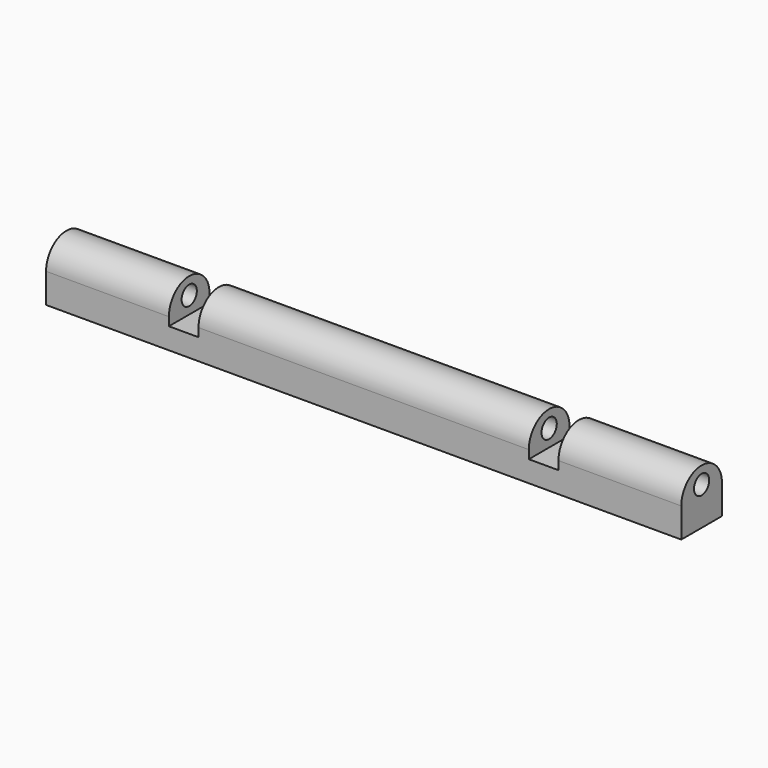
from build123d import *

# Parameters (mm, degrees)
F0_W          = 150
F0_H          = 12
F1_DEPTH      = 3
F1_DEPTH_BACK = 2
F2_R          = 2.25
F3_DEPTH      = 29
F4_START      = -36
F4_DEPTH      = 78
F5_START      = -121
F5_DEPTH      = 29


with BuildPart() as f1:
    # F0 (on Top) → F1 (new body, two sides)
    with BuildSketch(Plane.XY) as f1_sk:
        with Locations((75, 6)):
            Rectangle(F0_W, F0_H)
    extrude(amount=F1_DEPTH)
    extrude(f1_sk.sketch, amount=-F1_DEPTH_BACK)

    # F2 (on face) → F3 (join)
    with BuildSketch(Plane(origin=(0, 0, 0), x_dir=(0, -1, 0), z_dir=(-1, 0, 0))):
        with BuildLine():
            Line((-12, 5), (-12, 3))
            Line((-12, 3), (0, 3))
            Line((0, 3), (0, 5))
            ThreePointArc((0, 5), (-6, 11), (-12, 5))
        make_face()
        with Locations((-6, 7)):
            Circle(F2_R, mode=Mode.SUBTRACT)
    extrude(amount=-F3_DEPTH)

    # F2 (on face) → F4 (join)
    with BuildSketch(Plane(origin=(0, 0, 0), x_dir=(0, -1, 0), z_dir=(-1, 0, 0)).offset(F4_START)):
        with BuildLine():
            Line((-12, 5), (-12, 3))
            Line((-12, 3), (0, 3))
            Line((0, 3), (0, 5))
            ThreePointArc((0, 5), (-6, 11), (-12, 5))
        make_face()
        with Locations((-6, 7)):
            Circle(F2_R, mode=Mode.SUBTRACT)
    extrude(amount=-F4_DEPTH)

    # F2 (on face) → F5 (join)
    with BuildSketch(Plane(origin=(0, 0, 0), x_dir=(0, -1, 0), z_dir=(-1, 0, 0)).offset(F5_START)):
        with BuildLine():
            Line((-12, 5), (-12, 3))
            Line((-12, 3), (0, 3))
            Line((0, 3), (0, 5))
            ThreePointArc((0, 5), (-6, 11), (-12, 5))
        make_face()
        with Locations((-6, 7)):
            Circle(F2_R, mode=Mode.SUBTRACT)
    extrude(amount=-F5_DEPTH)


solid = f1.part
